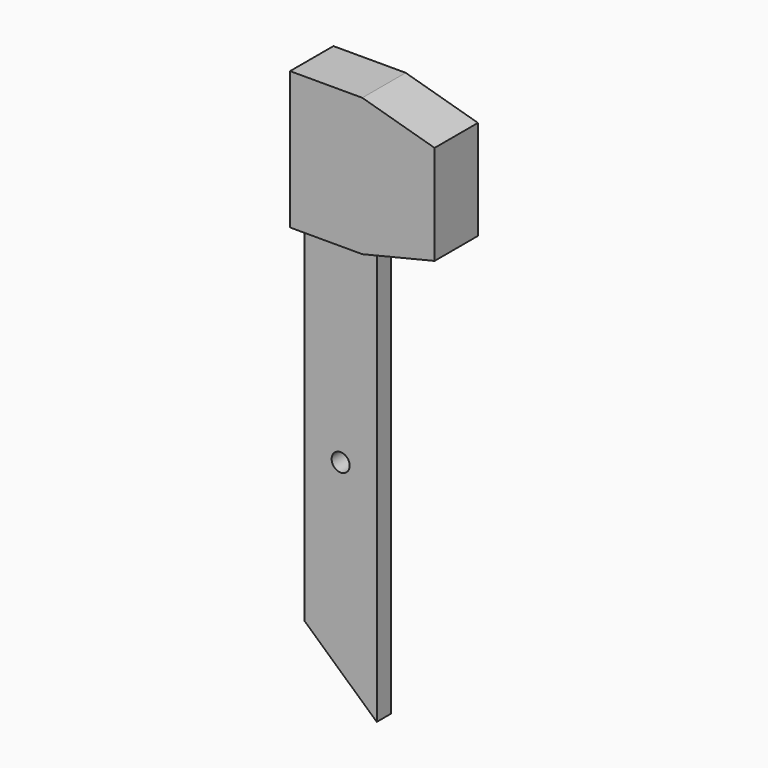
from build123d import *

# Parameters (mm, degrees)
F1_DEPTH = 3.175
F3_DEPTH = 3.175
F5_DEPTH = 3.175
F8_D     = 3.175


with BuildPart() as f1:
    # F0 (on Front) → F1 (new body)
    with BuildSketch(Plane.XZ):
        Polygon((-12.7, 11.496929), (0, 0), (0, 73.66), (12.7, 76.746243), (12.7, 94.234135), (0, 97.856929), (-12.7, 97.856929), align=None)
    extrude(amount=F1_DEPTH)

    # F2 (on face) → F3 (join)
    with BuildSketch(Plane.XZ.offset(3.175)):
        Polygon((0, 97.856929), (-12.7, 97.856929), (-12.7, 73.66), (0, 73.66), (12.7, 76.746243), (12.7, 94.234135), align=None)
    extrude(amount=F3_DEPTH)

    # F4 (on face) → F5 (join)
    with BuildSketch(Plane(origin=(0, 0, 0), x_dir=(-1, 0, 0), z_dir=(0, 1, 0))):
        Polygon((-12.7, 76.746243), (0, 73.66), (12.7, 73.66), (12.7, 97.856929), (0, 97.856929), (-12.7, 94.234135), align=None)
    extrude(amount=F5_DEPTH)

    # F8 (through all)
    with Locations(Plane.XZ.offset(3.175)):
        with Locations((-6.35, 38.1)):
            Hole(F8_D / 2)


solid = f1.part
